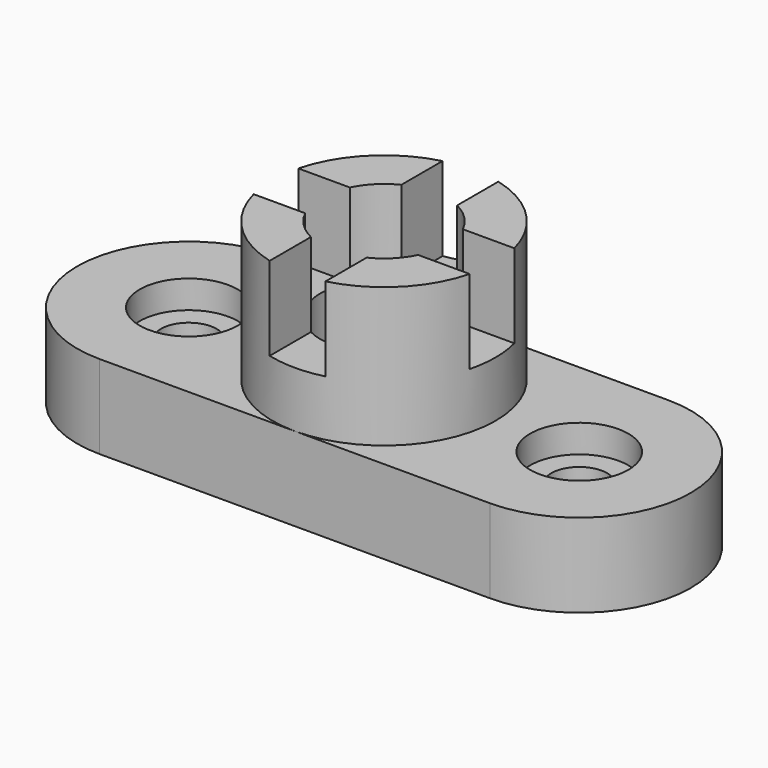
from build123d import *

# Parameters (mm, degrees)
F1_DEPTH  = 19.05
F2_R      = 11.176
F3_DEPTH  = 6.35
F4_R      = 6.35
F5_DEPTH  = 25.4
F6_R      = 6.35
F7_DEPTH  = 25.4
F8_R      = 25.4
F9_DEPTH  = 31.75
F10_R     = 14.351
F11_DEPTH = 50.8
F12_W     = 12.7
F12_H     = 19.05
F13_DEPTH = 50.8
F15_W     = 12.7
F15_H     = 19.05
F16_DEPTH = 50.8


with BuildPart() as f1:
    # F0 (on Top) → F1 (new body)
    with BuildSketch(Plane.XY):
        with BuildLine():
            Line((88.9, 25.4), (0, 25.4))
            ThreePointArc((0, 25.4), (-25.4, 0), (0, -25.4))
            Line((0, -25.4), (88.9, -25.4))
            ThreePointArc((88.9, -25.4), (114.3, 0), (88.9, 25.4))
        make_face()
    extrude(amount=F1_DEPTH)

    # F2 (on face) → F3 (cut)
    with BuildSketch(Plane.XY.offset(19.05)):
        Circle(F2_R)
        with Locations((88.9, 0)):
            Circle(F2_R)
    extrude(amount=-F3_DEPTH, mode=Mode.SUBTRACT)

    # F4 (on face) → F5 (cut)
    with BuildSketch(Plane.XY.offset(12.7)):
        Circle(F4_R)
    extrude(amount=-F5_DEPTH, mode=Mode.SUBTRACT)

    # F6 (on face) → F7 (cut)
    with BuildSketch(Plane.XY.offset(12.7)):
        with Locations((88.9, 0)):
            Circle(F6_R)
    extrude(amount=-F7_DEPTH, mode=Mode.SUBTRACT)

    # F8 (on face) → F9 (join)
    with BuildSketch(Plane.XY.offset(19.05)):
        with Locations((44.45, 0)):
            Circle(F8_R)
    extrude(amount=F9_DEPTH)

    # F10 (on face) → F11 (cut)
    with BuildSketch(Plane.XY.offset(50.8)):
        with Locations((44.45, 0)):
            Circle(F10_R)
    extrude(amount=-F11_DEPTH, mode=Mode.SUBTRACT)

    # F12 (on face) → F13 (cut)
    with BuildSketch(Plane.XZ.offset(25.4)):
        with Locations((44.45, 41.275)):
            Rectangle(F12_W, F12_H)
    extrude(amount=-F13_DEPTH, mode=Mode.SUBTRACT)

    # F15 (on offset) → F16 (cut)
    with BuildSketch(Plane.YZ.offset(69.85)):
        with Locations((0, 41.275)):
            Rectangle(F15_W, F15_H)
    extrude(amount=-F16_DEPTH, mode=Mode.SUBTRACT)


solid = f1.part
